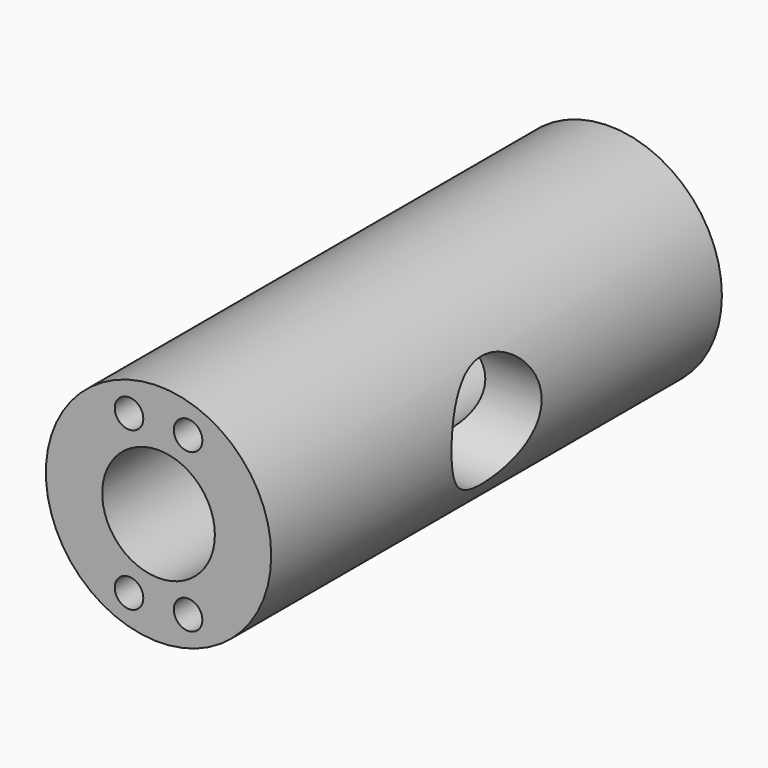
from build123d import *

# Parameters (mm, degrees)
F0_R      = 20
F1_DEPTH  = 50
F3_R      = 10
F4_DEPTH  = 120
F6_R      = 10
F7_DEPTH  = 50
F8_R      = 2.533674
F9_DEPTH  = 101
F10_DEPTH = 101


with BuildPart() as f1:
    # F0 (on Front) → F1 (new body, symmetric)
    with BuildSketch(Plane.XZ):
        Circle(F0_R)
    extrude(amount=F1_DEPTH, both=True)

    # F3 (on offset) → F4 (cut)
    with BuildSketch(Plane.XZ.offset(60)):
        Circle(F3_R)
    extrude(amount=-F4_DEPTH, mode=Mode.SUBTRACT)

    # F6 (on offset) → F7 (cut, symmetric)
    with BuildSketch(Plane.YZ.offset(30)):
        Circle(F6_R)
    extrude(amount=F7_DEPTH, both=True, mode=Mode.SUBTRACT)

    # F8 (on face) → F9 (cut)
    with BuildSketch(Plane.XZ.offset(50)):
        with Locations((5.240558, 14.022033)):
            Circle(F8_R)
    extrude(amount=-F9_DEPTH, mode=Mode.SUBTRACT)

    # F8 (on face) → F10 (cut)
    with BuildSketch(Plane.XZ.offset(50)):
        with Locations((-5.240558, 14.022033)):
            Circle(F8_R)
        with Locations((-5.240558, -14.022033)):
            Circle(F8_R)
        with Locations((5.240558, -14.022033)):
            Circle(F8_R)
    extrude(amount=-F10_DEPTH, mode=Mode.SUBTRACT)


solid = f1.part
